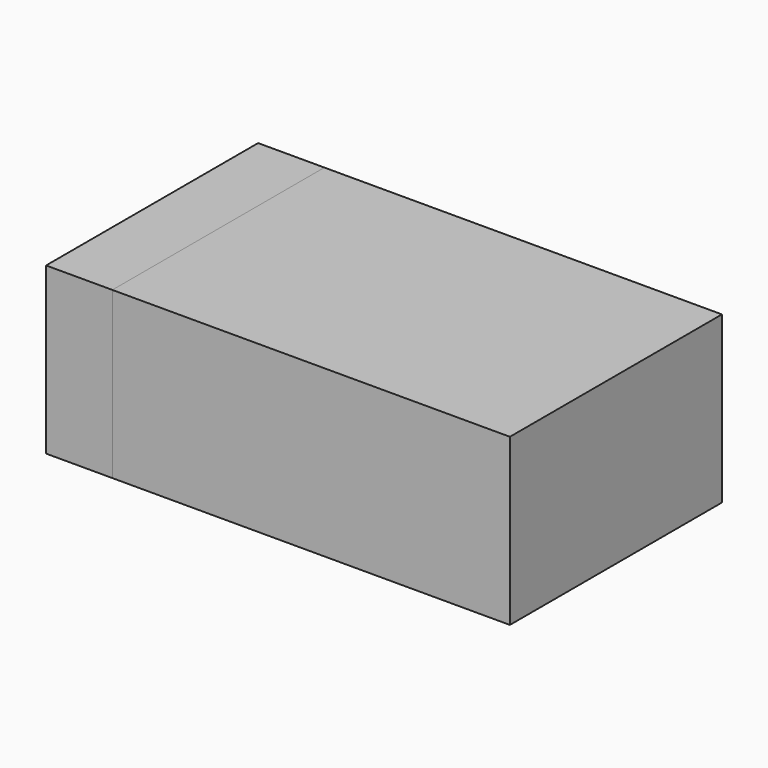
from build123d import *

# Parameters (mm, degrees)
SKETCH_W     = 1.2
SKETCH_H     = 0.8
PAD_DEPTH    = 0.5
SKETCH001_W  = 0.2
SKETCH001_H  = 0.8
PAD001_DEPTH = 0.5


with BuildPart() as body:
    # Sketch → Pad (new body)
    with BuildSketch(Plane.XY):
        Rectangle(SKETCH_W, SKETCH_H)
    extrude(amount=PAD_DEPTH)


with BuildPart() as body001:
    # Sketch001 → Pad001 (new body)
    with BuildSketch(Plane.XY):
        with Locations((0.7, 0)):
            Rectangle(SKETCH001_W, SKETCH001_H)
    extrude(amount=PAD001_DEPTH)


with BuildPart() as part_mirroring:
    # Part__Mirroring: instance of Body001
    add(body001.part.mirror(Plane(origin=(0, 0, 0), x_dir=(0, -1, 0), z_dir=(1, 0, 0))))


solid = Compound([body.part, part_mirroring.part])
